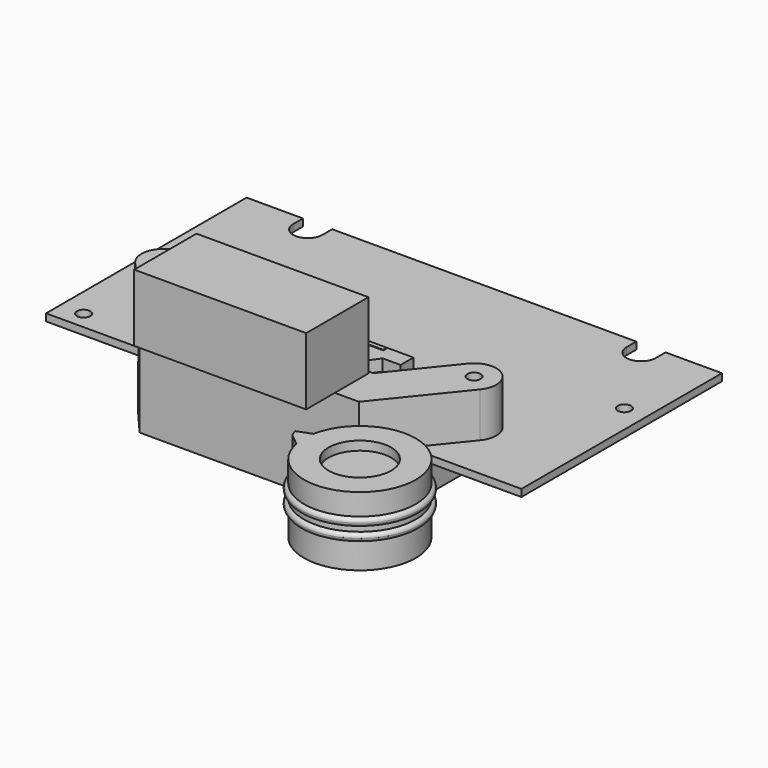
from build123d import *

# Parameters (mm, degrees)
F0_W           = 53.11
F0_H           = 28
F1_DEPTH       = 0.8
F2_R           = 1.075
F2_R_2         = 1.1
F2_R_3         = 0.75
F3_DEPTH       = 0.801
F4_W           = 20.4
F4_H           = 2
F5_DEPTH       = 5
F7_DEPTH       = 1.3
F9_DEPTH       = 1.3
F10_W          = 3.5
F10_H          = 2.9
F11_DEPTH      = 1
F12_W          = 1.25
F12_H          = 1.25
F13_DEPTH      = 0.5
F14_R          = 6.25
F15_DEPTH      = 7.7
F16_R          = 3.5
F17_DEPTH      = 1
F18_R          = 4
F19_DEPTH      = 2
F21_DEPTH      = 3.2
F23_DEPTH      = 1.5
F26_R          = 0.45
F29_DEPTH      = 5
F30_R          = 0.75
F31_DEPTH      = 6.901
F33_DEPTH      = 3
F35_DEPTH      = 3
F36_R          = 1
F37_DEPTH      = 26.556
F37_DEPTH_BACK = 26.9560001
F38_R          = 2
F39_W          = 19.8145318501
F39_H          = 10
F40_DEPTH      = 7
F41_W          = 19.8145318501
F41_H          = 10
F42_DEPTH      = 0.5
F43_W          = 19.8145318501
F43_H          = 10
F43_W_2        = 19.2145318501
F43_H_2        = 8.7
F44_DEPTH      = 7.5


with BuildPart() as f1:
    # F0 (on Top) → F1 (new body)
    with BuildSketch(Plane.XY):
        Rectangle(F0_W, F0_H)
    extrude(amount=F1_DEPTH)

    # F2 (on face) → F3 (cut, through all)
    with BuildSketch(Plane.XY.offset(0.8)):
        with BuildLine():
            Line((16.985, 14), (16.985, 12.635))
            ThreePointArc((16.985, 12.635), (18.62, 11), (20.255, 12.635))
            Line((20.255, 12.635), (20.255, 14))
            Line((20.255, 14), (16.985, 14))
        make_face()
        with BuildLine():
            Line((-20.255, 14), (-20.255, 12.635))
            ThreePointArc((-20.255, 12.635), (-18.62, 11), (-16.985, 12.635))
            Line((-16.985, 12.635), (-16.985, 14))
            Line((-16.985, 14), (-20.255, 14))
        make_face()
        with Locations((-18.58, -7.525)):
            Circle(F2_R)
        with Locations((16.055, -7.5)):
            Circle(F2_R_2)
        with Locations((24.055, 3.5)):
            Circle(F2_R_3)
        with Locations((-23.955, -12)):
            Circle(F2_R_3)
    extrude(amount=-F3_DEPTH, mode=Mode.SUBTRACT)


with BuildPart() as f5:
    # F4 (on face) → F5 (new body)
    with BuildSketch(Plane.XY.offset(0.8)):
        with Locations((-1.055, -9)):
            Rectangle(F4_W, F4_H)
    extrude(amount=F5_DEPTH)

    # F6 (on face) → F7 (cut)
    with BuildSketch(Plane.XY.offset(5.8)):
        Polygon((-11.255, -8.5), (-11.255, -10), (9.145, -10), (9.145, -8.5), (9.145, -8), (6.695, -8), (6.695, -8.5), (-8.805, -8.5), (-8.805, -8), (-11.255, -8), align=None)
    extrude(amount=-F7_DEPTH, mode=Mode.SUBTRACT)


with BuildPart() as f9:
    # F8 (on face) → F9 (new body, through all)
    with BuildSketch(Plane.XY.offset(5.8)):
        Polygon((-8.905, -8), (-11.805, -8), (-11.805, -9.8), (-9.805, -9.8), (-8.955, -11), (6.845, -11), (7.695, -9.8), (9.695, -9.8), (9.695, -8), (6.795, -8), (6.795, -8.6), (-8.905, -8.6), align=None)
    extrude(amount=-F9_DEPTH)


with BuildPart() as f11:
    # F10 (on face) → F11 (new body)
    with BuildSketch(Plane(origin=(0, 0, 0), x_dir=(1, 0, 0), z_dir=(0, 0, -1))):
        with Locations((-16.005, 0)):
            Rectangle(F10_W, F10_H)
    extrude(amount=F11_DEPTH)


with BuildPart() as f11b:
    # F10 (on face) → F11, piece 2 (new body)
    with BuildSketch(Plane(origin=(0, 0, 0), x_dir=(1, 0, 0), z_dir=(0, 0, -1))):
        Rectangle(F10_W, F10_H)
    extrude(amount=F11_DEPTH)


with BuildPart() as f11c:
    # F10 (on face) → F11, piece 3 (new body)
    with BuildSketch(Plane(origin=(0, 0, 0), x_dir=(1, 0, 0), z_dir=(0, 0, -1))):
        with Locations((16.005, 0)):
            Rectangle(F10_W, F10_H)
    extrude(amount=F11_DEPTH)


with BuildPart() as f13:
    # F12 (on face) → F13 (new body)
    with BuildSketch(Plane(origin=(0, 0, -1), x_dir=(1, 0, 0), z_dir=(0, 0, -1))):
        with Locations((-16.005, 0)):
            Rectangle(F12_W, F12_H)
    extrude(amount=F13_DEPTH)


with BuildPart() as f13b:
    # F12 (on face) → F13, piece 2 (new body)
    with BuildSketch(Plane(origin=(0, 0, -1), x_dir=(1, 0, 0), z_dir=(0, 0, -1))):
        Rectangle(F12_W, F12_H)
    extrude(amount=F13_DEPTH)


with BuildPart() as f13c:
    # F12 (on face) → F13, piece 3 (new body)
    with BuildSketch(Plane(origin=(0, 0, -1), x_dir=(1, 0, 0), z_dir=(0, 0, -1))):
        with Locations((16.005, 0)):
            Rectangle(F12_W, F12_H)
    extrude(amount=F13_DEPTH)


with BuildPart() as f15:
    # F14 (on face) → F15 (new body)
    with BuildSketch(Plane(origin=(0, 0, 0), x_dir=(1, 0, 0), z_dir=(0, 0, -1))):
        with Locations((20.305, 28.75)):
            Circle(F14_R)
    extrude(amount=-F15_DEPTH)

    # F16 (on face) → F17 (cut)
    with BuildSketch(Plane.XY.offset(7.7)):
        with Locations((20.305, -28.75)):
            Circle(F16_R)
    extrude(amount=-F17_DEPTH, mode=Mode.SUBTRACT)

    # F18 (on face) → F19 (cut)
    with BuildSketch(Plane(origin=(0, 0, 0), x_dir=(1, 0, 0), z_dir=(0, 0, -1))):
        with Locations((20.305, 28.75)):
            Circle(F18_R)
    extrude(amount=-F19_DEPTH, mode=Mode.SUBTRACT)

    # F20 (on face) → F21 (cut)
    with BuildSketch(Plane(origin=(0, 0, 0), x_dir=(1, 0, 0), z_dir=(0, 0, -1))):
        Polygon((16.5969007565, 30.25), (14.055, 30.25), (14.055, 27.25), (16.5969007565, 27.25), (16.5969007565, 28.75), align=None)
    extrude(amount=-F21_DEPTH, mode=Mode.SUBTRACT)

    # F22 (on face) → F23 (join)
    with BuildSketch(Plane.XY.offset(7.7)):
        with BuildLine():
            ThreePointArc((14.171281715, -29.95), (14.055, -28.75), (14.171281715, -27.55))
            Line((14.171281715, -27.55), (12.5773608931, -28.1617025975))
            Line((12.5773608931, -28.1617025975), (12.8474131487, -28.8653810108))
            Line((12.8474131487, -28.8653810108), (14.171281715, -29.95))
        make_face()
    extrude(amount=-F23_DEPTH)

    # F26 (on line) → F27 (revolve)
    with BuildSketch(Plane.XZ.offset(28.75)):
        with Locations((26.505, 4.85)):
            Circle(F26_R)
        with Locations((26.505, 3.35)):
            Circle(F26_R)
    revolve(axis=Axis((20.305, -28.75, 4.1626373367), (0, 0, -1)))


with BuildPart() as f29:
    # F28 (on face) → F29 (new body)
    with BuildSketch(Plane.XY.offset(0.8)):
        with BuildLine():
            Line((11.195, -17.5), (18.0002265501, -9.0703801033))
            ThreePointArc((18.0002265501, -9.0703801033), (17.6253801033, -5.5547734499), (14.1097734499, -5.9296198967))
            Line((14.1097734499, -5.9296198967), (8.8055099516, -12.5))
            Line((8.8055099516, -12.5), (-11.0090218985, -12.5))
            Line((-11.0090218985, -12.5), (-16.6838460844, -5.8957055735))
            ThreePointArc((-16.6838460844, -5.8957055735), (-20.2092944265, -5.6288460844), (-20.4761539156, -9.1542944265))
            Line((-20.4761539156, -9.1542944265), (-13.305, -17.5))
            Line((-13.305, -17.5), (11.195, -17.5))
        make_face()
    extrude(amount=F29_DEPTH)

    # F30 (on face) → F31 (cut, through all)
    with BuildSketch(Plane(origin=(0, 0, 0.8), x_dir=(1, 0, 0), z_dir=(0, 0, -1))):
        with Locations((-18.58, 7.525)):
            Circle(F30_R)
        with Locations((16.055, 7.5)):
            Circle(F30_R)
    extrude(amount=-F31_DEPTH, mode=Mode.SUBTRACT)

    # F32 (on face) → F33 (join)
    with BuildSketch(Plane(origin=(0, 0, 0.8), x_dir=(1, 0, 0), z_dir=(0, 0, -1))):
        Polygon((13.6168980097, 14.5), (11.195, 17.5), (-13.305, 17.5), (-15.8827882478, 14.5), (-13.305, 14.5), (11.195, 14.5), align=None)
    extrude(amount=F33_DEPTH)

    # F34 (on face) → F35 (join)
    with BuildSketch(Plane(origin=(0, 0, -2.2), x_dir=(1, 0, 0), z_dir=(0, 0, -1))):
        with BuildLine():
            Line((-3, 14.5), (-3, 0))
            ThreePointArc((-3, 0), (0, -3), (3, 0))
            Line((3, 0), (3, 14.5))
            Line((3, 14.5), (7.6168980097, 14.5))
            Line((7.6168980097, 14.5), (13.1811576508, -1.0128743193))
            ThreePointArc((13.1811576508, -1.0128743193), (17.9499125703, -2.2841442805), (17.4550531831, 2.6262798339))
            Line((17.4550531831, 2.6262798339), (13.6168980097, 4.7454481931))
            Line((13.6168980097, 4.7454481931), (13.6168980097, 14.5))
            Line((13.6168980097, 14.5), (11.195, 17.5))
            Line((11.195, 17.5), (-13.305, 17.5))
            Line((-13.305, 17.5), (-15.8827882478, 14.5))
            Line((-15.8827882478, 14.5), (-15.8827882478, 4.7454481931))
            Line((-15.8827882478, 4.7454481931), (-18.2803846987, 1.9551533119))
            ThreePointArc((-18.2803846987, 1.9551533119), (-17.3335975941, -2.6897636389), (-13.0695002137, -0.6187414683))
            Line((-13.0695002137, -0.6187414683), (-9.8827882478, 14.5))
            Line((-9.8827882478, 14.5), (-3, 14.5))
        make_face()
    extrude(amount=F35_DEPTH)

    # F36 (on Right) → F37 (cut, two sides)
    with BuildSketch(Plane.YZ) as f37_sk:
        with Locations((-14.5, 0.8)):
            Circle(F36_R)
    extrude(amount=-F37_DEPTH, mode=Mode.SUBTRACT)
    extrude(f37_sk.sketch, amount=F37_DEPTH_BACK, mode=Mode.SUBTRACT)

    # F38
    f38_edges = [f29.edges().sort_by_distance(p)[0] for p in [
        (-9.882788, -14.5, -3.7),
        (-3, -14.5, -3.7),
        (3, -14.5, -3.7),
        (7.616898, -14.5, -3.7),
    ]]
    fillet(f38_edges, radius=F38_R)

    # F39 (on face) → F40 (join)
    with BuildSketch(Plane.XY.offset(5.8)):
        with Locations((-1.1017559735, -17.5)):
            Rectangle(F39_W, F39_H)
    extrude(amount=F40_DEPTH)

    # F41 (on face) → F42 (join)
    with BuildSketch(Plane.XY.offset(12.8)):
        with Locations((-1.1017559735, -17.5)):
            Rectangle(F41_W, F41_H)
    extrude(amount=F42_DEPTH)

    # F43 (on face) → F44 (cut, through all)
    with BuildSketch(Plane.XY.offset(13.3)):
        with Locations((-1.1017559735, -17.5)):
            Rectangle(F43_W, F43_H)
        with Locations((-1.1017559735, -17.15)):
            Rectangle(F43_W_2, F43_H_2, mode=Mode.SUBTRACT)
    extrude(amount=-F44_DEPTH, mode=Mode.SUBTRACT)


solid = Compound([f1.part, f5.part, f9.part, f11.part, f11b.part, f11c.part, f13.part, f13b.part, f13c.part, f15.part, f29.part])
